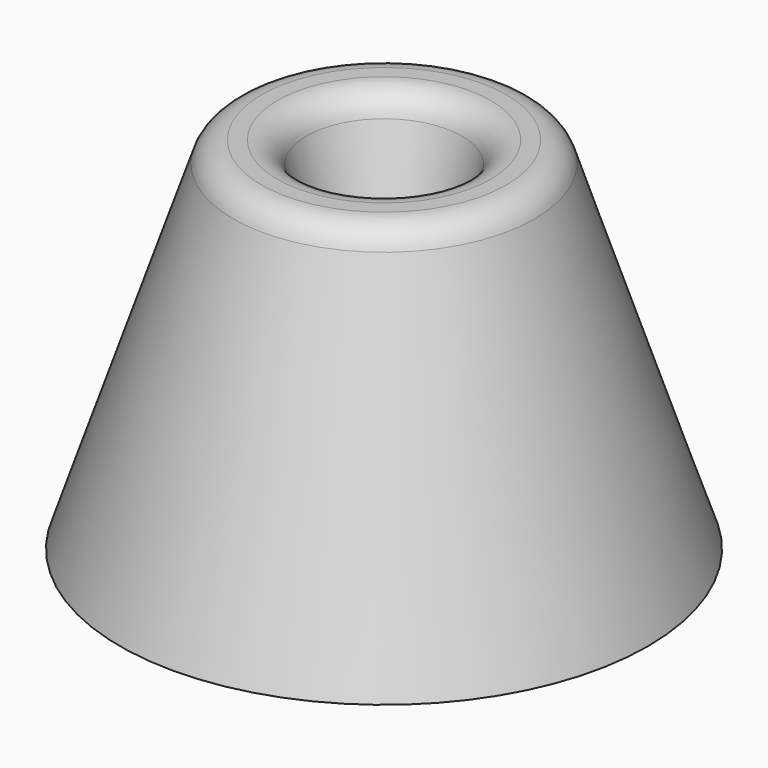
from build123d import *

# Parameters (mm, degrees)
F2_R = 2.5


with BuildPart() as f1:
    # F0 (on Front) → F1 (revolve)
    with BuildSketch(Plane.XZ):
        Polygon((0, 5), (0, 0), (22, 0), (12, 30), (7, 30), align=None)
    revolve(axis=Axis((0, 0, 2.5), (0, 0, -1)))

    # F2
    f2_edges = [f1.edges().sort_by_distance(p)[0] for p in [
        (-12, 0, 30),
        (-7, 0, 30),
    ]]
    fillet(f2_edges, radius=F2_R)


solid = f1.part
